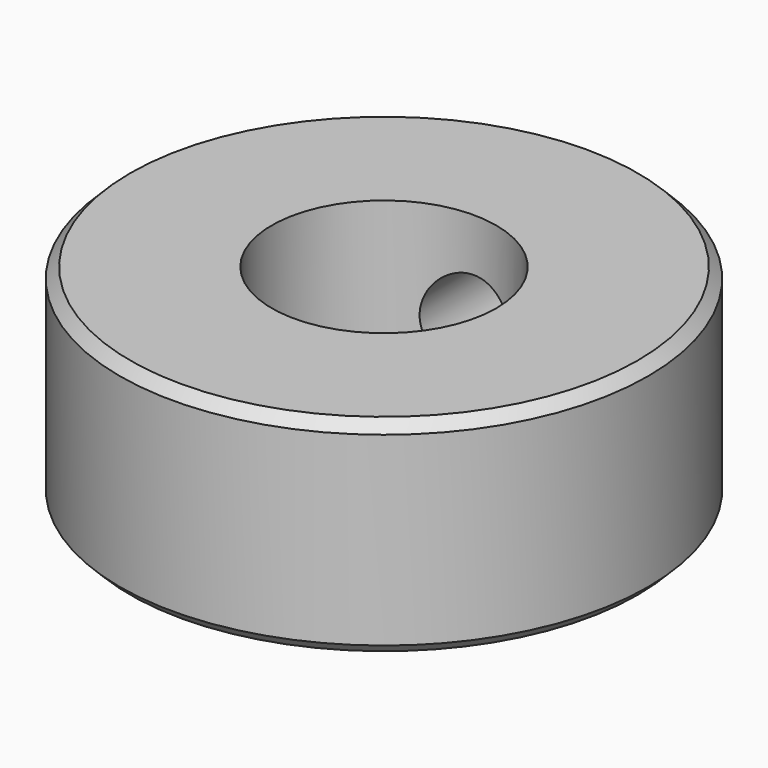
from build123d import *

# Parameters (mm, degrees)
F0_R     = 10.16
F0_R_2   = 4.318
F1_DEPTH = 7.9375
F2_R     = 1.778
F3_DEPTH = 25.4
F4_SIZE  = 0.4


with BuildPart() as f1:
    # F0 (on Top) → F1 (new body)
    with BuildSketch(Plane.XY):
        Circle(F0_R)
        Circle(F0_R_2, mode=Mode.SUBTRACT)
    extrude(amount=F1_DEPTH)

    # F2 (on Front) → F3 (cut)
    with BuildSketch(Plane.XZ):
        with Locations((0, 4.1275)):
            Circle(F2_R)
    extrude(amount=-F3_DEPTH, mode=Mode.SUBTRACT)

    # F4
    f4_edges = [f1.edges().sort_by_distance(p)[0] for p in [
        (-10.16, 0, 0),
        (-10.16, 0, 7.9375),
    ]]
    chamfer(f4_edges, length=F4_SIZE)


solid = f1.part
